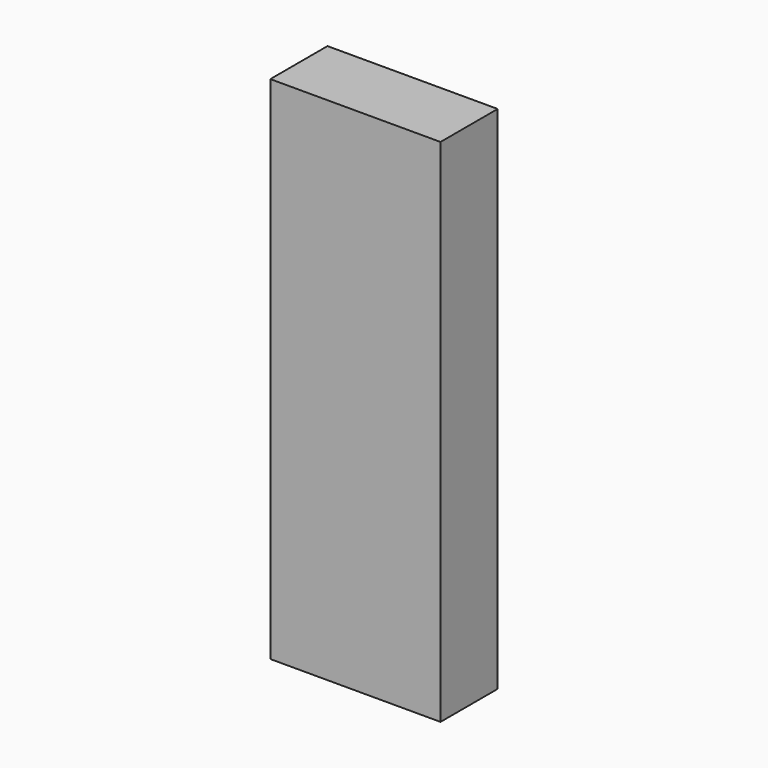
from build123d import *

# Parameters (mm, degrees)
SKETCH_W  = 10
SKETCH_H  = 4.2
PAD_DEPTH = 30


with BuildPart() as part:
    # Sketch → Pad (new body)
    with BuildSketch(Plane.XY):
        with Locations((-5, 2.1)):
            Rectangle(SKETCH_W, SKETCH_H)
    extrude(amount=PAD_DEPTH)


solid = part.part
